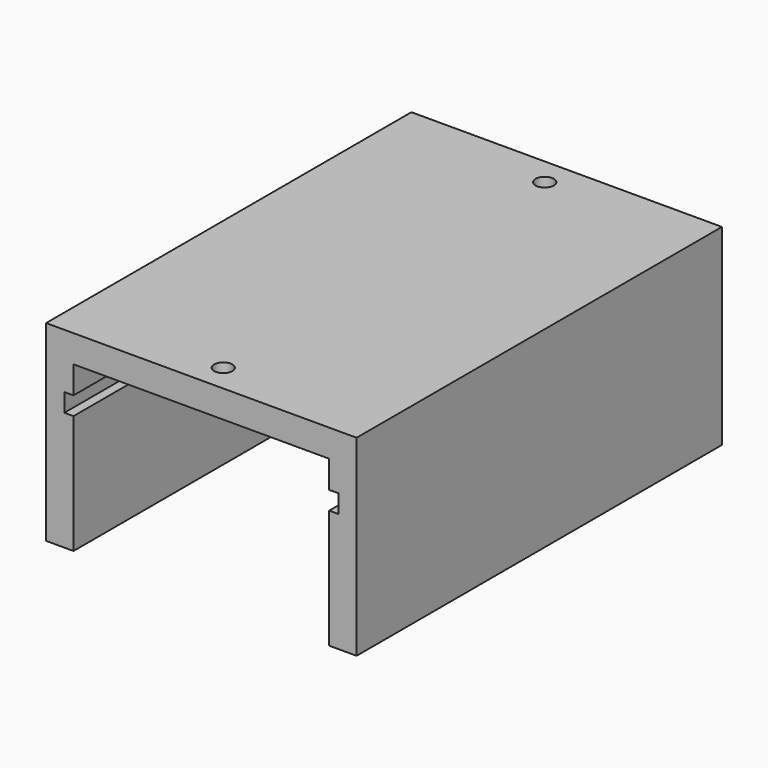
from build123d import *

# Parameters (mm, degrees)
F0_W           = 28
F0_H           = 3
F1_DEPTH       = 50
F2_W           = 1
F2_H           = 2
F3_DEPTH       = 50
F5_D           = 2
F5_CSINK_D     = 3
F5_CSINK_ANGLE = 90
F6_D           = 2
F6_CSINK_D     = 3
F6_CSINK_ANGLE = 90


with BuildPart() as f1:
    # F0 (on Front) → F1 (new body)
    with BuildSketch(Plane.XZ):
        Polygon((0, -3), (0, 0), (-3, 0), (-3, -21), (0, -21), align=None)
        with Locations((14, -1.5)):
            Rectangle(F0_W, F0_H)
        Polygon((31, 0), (28, 0), (28, -3), (28, -21.022089), (31, -21.022089), align=None)
    extrude(amount=F1_DEPTH)

    # F2 (on face) → F3 (cut)
    with BuildSketch(Plane.XZ.offset(50)):
        with Locations((-0.5, -7)):
            Rectangle(F2_W, F2_H)
        with Locations((28.5, -7)):
            Rectangle(F2_W, F2_H)
    extrude(amount=-F3_DEPTH, mode=Mode.SUBTRACT)

    # F5 (through all)
    with Locations(Plane(origin=(0, 0, -3), x_dir=(1, 0, 0), z_dir=(0, 0, -1))):
        with Locations((14, 47)):
            CounterSinkHole(F5_D / 2, F5_CSINK_D / 2, counter_sink_angle=F5_CSINK_ANGLE)

    # F6 (through all)
    with Locations(Plane(origin=(0, 0, -3), x_dir=(1, 0, 0), z_dir=(0, 0, -1))):
        with Locations((14, 3)):
            CounterSinkHole(F6_D / 2, F6_CSINK_D / 2, counter_sink_angle=F6_CSINK_ANGLE)


solid = f1.part
